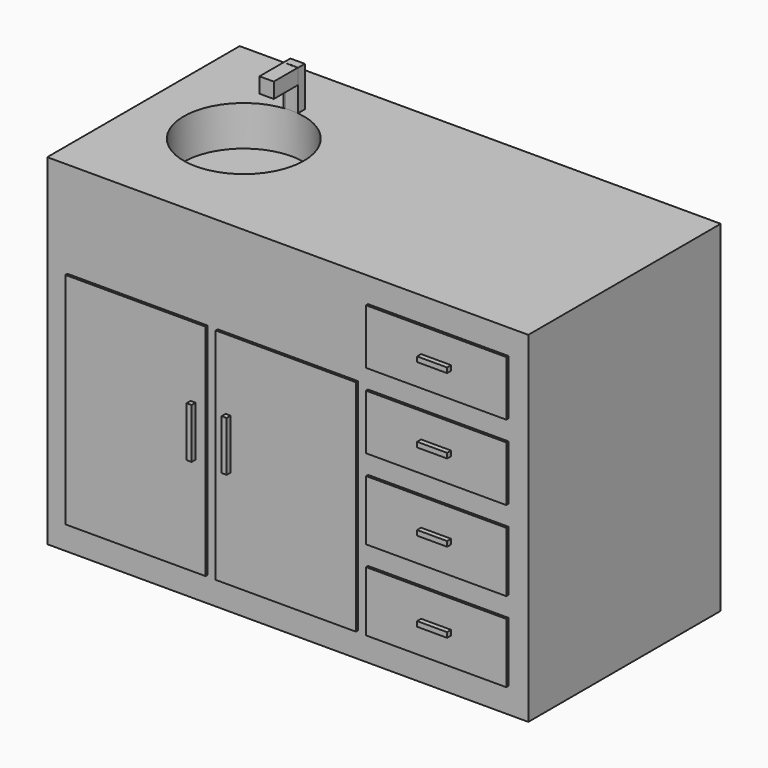
from build123d import *

# Parameters (mm, degrees)
F0_W      = 1219.2
F0_H      = 609.6
F1_DEPTH  = 863.6
F2_W      = 355.6
F2_H      = 556.5136
F2_H_2    = 139.7
F2_H_3    = 152.4
F3_DEPTH  = 6.35
F4_W      = 12.7
F4_H      = 127
F4_W_2    = 76.2
F4_H_2    = 12.7
F5_DEPTH  = 12.7
F6_R      = 152.4
F7_DEPTH  = 101.6
F9_DEPTH  = 101.6
F10_W     = 36.244035
F10_H     = 38.805716
F11_DEPTH = 76.2


with BuildPart() as f1:
    # F0 (on Top) → F1 (new body)
    with BuildSketch(Plane.XY):
        with Locations((81.062435, 29.701205)):
            Rectangle(F0_W, F0_H)
    extrude(amount=F1_DEPTH)

    # F2 (on face) → F3 (join)
    with BuildSketch(Plane.XZ.offset(275.098795)):
        with Locations((-299.937565, 341.7568)):
            Rectangle(F2_W, F2_H)
        with Locations((81.062435, 341.7568)):
            Rectangle(F2_W, F2_H)
        with Locations((462.062435, 539.75)):
            Rectangle(F2_W, F2_H_2)
        with Locations((462.062435, 342.9)):
            Rectangle(F2_W, F2_H_3)
        with Locations((462.062435, 139.7)):
            Rectangle(F2_W, F2_H_3)
        with Locations((462.062435, 730.25)):
            Rectangle(F2_W, F2_H_2)
    extrude(amount=F3_DEPTH)

    # F4 (on face) → F5 (join)
    with BuildSketch(Plane.XZ.offset(281.448795)):
        with Locations((-153.887565, 378.7136)):
            Rectangle(F4_W, F4_H)
        with Locations((-64.987565, 378.7136)):
            Rectangle(F4_W, F4_H)
        with Locations((462.062435, 730.25)):
            Rectangle(F4_W_2, F4_H_2)
        with Locations((462.062435, 539.75)):
            Rectangle(F4_W_2, F4_H_2)
        with Locations((462.062435, 342.9)):
            Rectangle(F4_W_2, F4_H_2)
        with Locations((462.062435, 139.7)):
            Rectangle(F4_W_2, F4_H_2)
    extrude(amount=F5_DEPTH)

    # F6 (on face) → F7 (cut)
    with BuildSketch(Plane.XY.offset(863.6)):
        with Locations((-274.537565, 30.048797)):
            Circle(F6_R)
    extrude(amount=-F7_DEPTH, mode=Mode.SUBTRACT)

    # F8 (on face) → F9 (join)
    with BuildSketch(Plane.XY.offset(863.6)):
        with BuildLine():
            Line((-258.585499, 203.312472), (-295.121998, 203.312472))
            Line((-295.121998, 203.312472), (-295.121998, 181.611627))
            Line((-295.121998, 181.611627), (-290.489632, 181.611627))
            ThreePointArc((-290.489632, 181.611627), (-274.537565, 182.448797), (-258.585499, 181.611627))
            Line((-258.585499, 181.611627), (-258.585499, 203.312472))
        make_face()
    extrude(amount=F9_DEPTH)

    # F10 (on face) → F11 (join)
    with BuildSketch(Plane.XZ.offset(-181.611627)):
        with Locations((-276.99998, 945.797142)):
            Rectangle(F10_W, F10_H)
        with Locations((-276.99998, 945.797142)):
            Rectangle(F10_W, F10_H)
    extrude(amount=F11_DEPTH)


solid = f1.part
